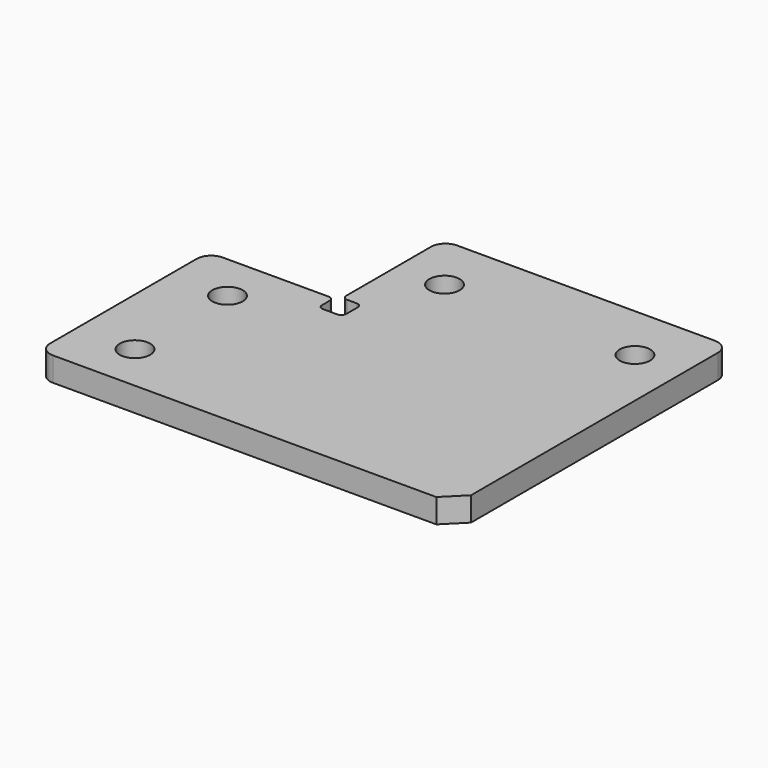
from build123d import *

# Parameters (mm, degrees)
CYLINDER056_R     = 3.15
CYLINDER056_DEPTH = 10
CYLINDER055_R     = 3.15
CYLINDER055_DEPTH = 10
CYLINDER_R        = 3.15
CYLINDER_DEPTH    = 10
CYLINDER057_R     = 3.15
CYLINDER057_DEPTH = 10
BOX002_W          = 5
BOX002_H          = 5
BOX002_DEPTH      = 5
BOX001_W          = 59.5
BOX001_H          = 27
BOX001_DEPTH      = 5
BOX_W             = 86.5
BOX_H             = 44
BOX_DEPTH         = 5
CHAMFER_SIZE      = 4
FILLET_R          = 3
FILLET001_R       = 1


with BuildPart() as cylinder056:
    # Cylinder056 → Cylinder056 (new body)
    with BuildSketch(Plane(origin=(-15, -34, 26.5), x_dir=(1, 0, 0), z_dir=(0, 0, 1))):
        Circle(CYLINDER056_R)
    extrude(amount=CYLINDER056_DEPTH)


with BuildPart() as cylinder055:
    # Cylinder055 → Cylinder055 (new body)
    with BuildSketch(Plane(origin=(10, 15, 26.5), x_dir=(1, 0, 0), z_dir=(0, 0, 1))):
        Circle(CYLINDER055_R)
    extrude(amount=CYLINDER055_DEPTH)


with BuildPart() as cylinder:
    # Cylinder → Cylinder (new body)
    with BuildSketch(Plane(origin=(-15, -10, 26.5), x_dir=(1, 0, 0), z_dir=(0, 0, 1))):
        Circle(CYLINDER_R)
    extrude(amount=CYLINDER_DEPTH)


with BuildPart() as fusion006002011004053036004001002:
    # Cylinder057 → Cylinder057 (new body)
    with BuildSketch(Plane(origin=(49.5, 15, 26.5), x_dir=(1, 0, 0), z_dir=(0, 0, 1))):
        Circle(CYLINDER057_R)
    extrude(amount=CYLINDER057_DEPTH)

    # Fusion006002011004053036004001002: union Cylinder056, Cylinder055, Cylinder
    add(cylinder056.part)
    add(cylinder055.part)
    add(cylinder.part)


with BuildPart() as cube002:
    # Box002 → Box002 (new body)
    with BuildSketch(Plane(origin=(-1, -4, 30), x_dir=(1, 0, 0), z_dir=(0, 0, 1))):
        with Locations((2.5, 2.5)):
            Rectangle(BOX002_W, BOX002_H)
    extrude(amount=BOX002_DEPTH)


with BuildPart() as cube001:
    # Box001 → Box001 (new body)
    with BuildSketch(Plane.XY.offset(30)):
        with Locations((29.75, 13.5)):
            Rectangle(BOX001_W, BOX001_H)
    extrude(amount=BOX001_DEPTH)


with BuildPart() as base_plate:
    # Box → Box (new body)
    with BuildSketch(Plane(origin=(-27, -44, 30), x_dir=(1, 0, 0), z_dir=(0, 0, 1))):
        with Locations((43.25, 22)):
            Rectangle(BOX_W, BOX_H)
    extrude(amount=BOX_DEPTH)

    # Fusion: union Cube001
    add(cube001.part)

    # Cut: cut Cube002
    add(cube002.part, mode=Mode.SUBTRACT)

    # Chamfer
    chamfer_edges = [base_plate.edges().sort_by_distance(p)[0] for p in [
        (59.5, -44, 32.5),
    ]]
    chamfer(chamfer_edges, length=CHAMFER_SIZE)

    # Fillet
    fillet_edges = [base_plate.edges().sort_by_distance(p)[0] for p in [
        (-27, -44, 32.5),
        (-27, 0, 32.5),
        (59.5, 27, 32.5),
        (0, 27, 32.5),
    ]]
    fillet(fillet_edges, radius=FILLET_R)

    # Fillet001
    fillet001_edges = [base_plate.edges().sort_by_distance(p)[0] for p in [
        (-1, 0, 32.5),
        (4, -4, 32.5),
        (4, 1, 32.5),
        (-1, -4, 32.5),
        (0, 1, 32.5),
    ]]
    fillet(fillet001_edges, radius=FILLET001_R)

    # Cut002008: cut Fusion006002011004053036004001002
    add(fusion006002011004053036004001002.part, mode=Mode.SUBTRACT)


solid = base_plate.part
